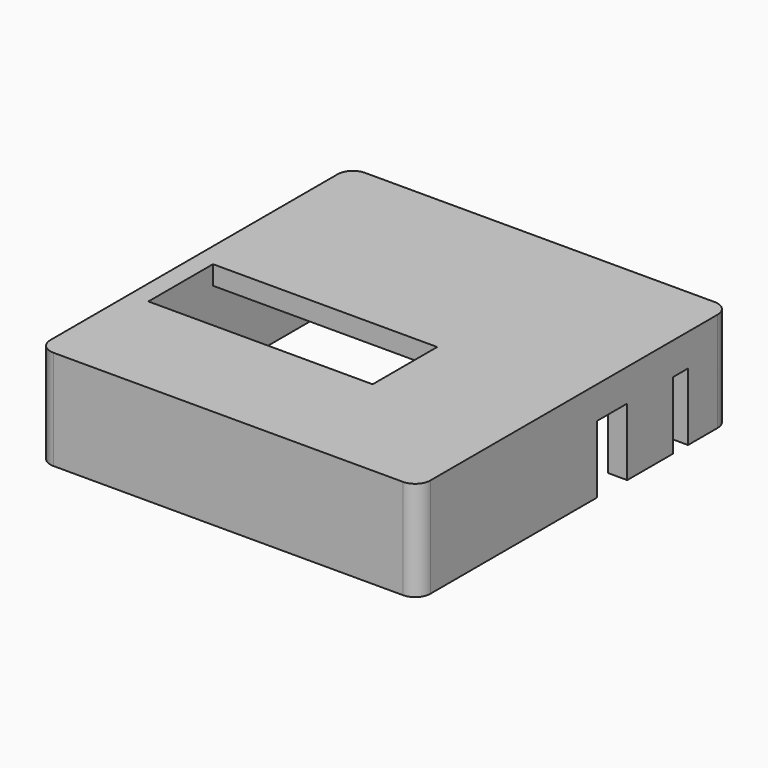
from build123d import *

# Parameters (mm, degrees)
F0_W     = 127
F0_H     = 130.175
F1_DEPTH = 33.3375
F2_T     = -6.35
F3_W     = 74.93
F3_H     = 26.9875
F4_DEPTH = 35.052
F5_W     = 12.7
F5_H     = 8.6501294995
F5_W_2   = 6.35
F6_DEPTH = 25.4
F7_R     = 5.08
F5_H_2   = 22.5425
F8_DEPTH = 25.4


with BuildPart() as f1:
    # F0 (on Top) → F1 (new body)
    with BuildSketch(Plane.XY):
        with Locations((-63.5, -65.0875)):
            Rectangle(F0_W, F0_H)
    extrude(amount=F1_DEPTH)

    # F2
    f2_openings = [f1.faces().sort_by_distance(p)[0] for p in [
        (-63.5, -65.0875, 0),
    ]]
    offset(amount=F2_T, openings=f2_openings)

    # F3 (on face) → F4 (cut)
    with BuildSketch(Plane(origin=(0, 0, 0), x_dir=(1, 0, 0), z_dir=(0, 0, -1))):
        with Locations((-83.185, 78.58125)):
            Rectangle(F3_W, F3_H)
    extrude(amount=-F4_DEPTH, mode=Mode.SUBTRACT)

    # F5 (on face) → F6 (cut)
    with BuildSketch(Plane.YZ):
        with Locations((-49.2125, -4.3250647498)):
            Rectangle(F5_W, F5_H)
        with Locations((-20.6375, -4.3250647498)):
            Rectangle(F5_W_2, F5_H)
    extrude(amount=-F6_DEPTH, mode=Mode.SUBTRACT)

    # F7
    f7_edges = [f1.edges().sort_by_distance(p)[0] for p in [
        (-127, 0, 16.66875),
        (-127, -130.175, 16.66875),
        (0, -130.175, 16.66875),
        (0, 0, 16.66875),
    ]]
    fillet(f7_edges, radius=F7_R)

    # F5 (on face) → F8 (cut)
    with BuildSketch(Plane.YZ):
        with Locations((-49.2125, 11.27125)):
            Rectangle(F5_W, F5_H_2)
        with Locations((-20.6375, 11.27125)):
            Rectangle(F5_W_2, F5_H_2)
    extrude(amount=-F8_DEPTH, mode=Mode.SUBTRACT)


solid = f1.part
